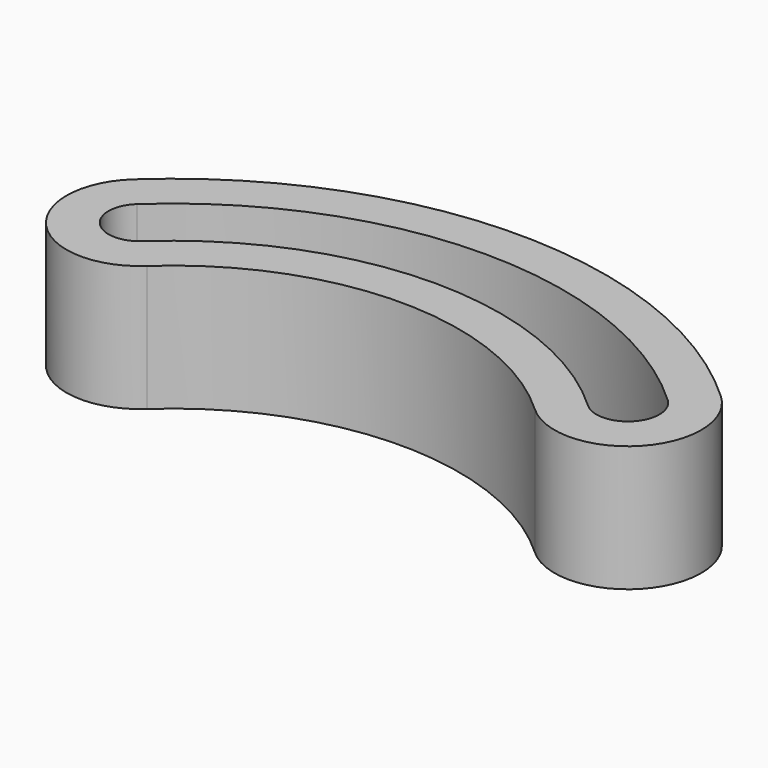
from build123d import *

# Parameters (mm, degrees)
F1_DEPTH = 6


with BuildPart() as f1:
    # F0 (on Top) → F1 (new body)
    with BuildSketch(Plane.XY):
        with BuildLine():
            ThreePointArc((-9.247421, 0), (0, 3.620381), (9.247421, 0))
            ThreePointArc((9.247421, 0), (14.193389, 0.193389), (14, 5.139357))
            ThreePointArc((14, 5.139357), (0, 10.620381), (-14, 5.139357))
            ThreePointArc((-14, 5.139357), (-14.193389, 0.193389), (-9.247421, 0))
        make_face()
        with BuildLine():
            ThreePointArc((-12.64212, 3.670969), (0, 8.620381), (12.64212, 3.670969))
            ThreePointArc((12.64212, 3.670969), (12.725001, 1.551269), (10.6053, 1.468388))
            ThreePointArc((10.6053, 1.468388), (0, 5.620381), (-10.6053, 1.468388))
            ThreePointArc((-10.6053, 1.468388), (-12.725001, 1.551269), (-12.64212, 3.670969))
        make_face(mode=Mode.SUBTRACT)
    extrude(amount=F1_DEPTH)


solid = f1.part
